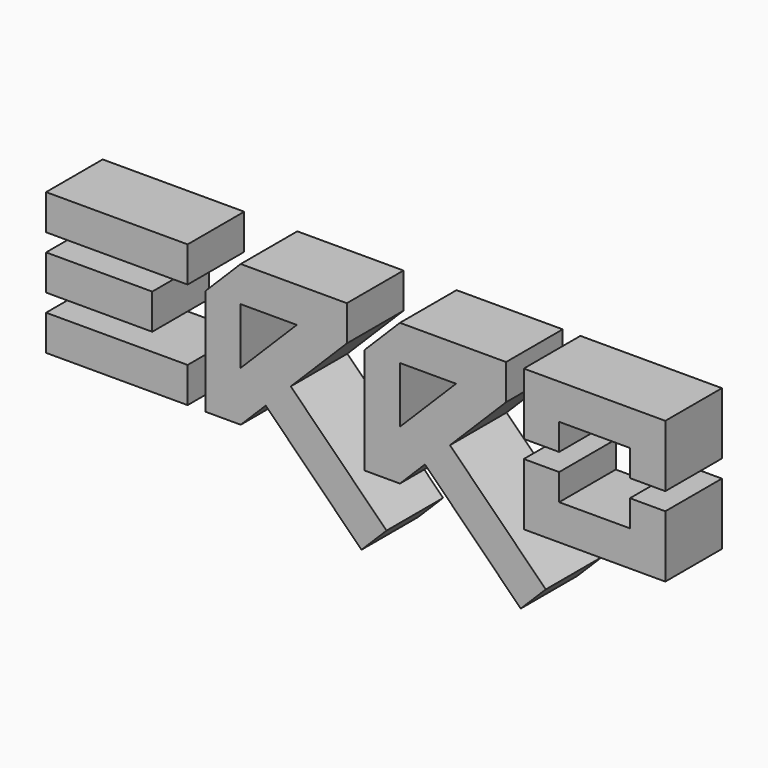
from build123d import *

# Parameters (mm, degrees)
F0_W     = 40
F0_H     = 10
F0_W_2   = 30
F1_DEPTH = 20


with BuildPart() as f1:
    # F0 (on Front) → F1 (new body)
    with BuildSketch(Plane.XZ):
        with Locations((-20, 35)):
            Rectangle(F0_W, F0_H)
        with Locations((-25, 20)):
            Rectangle(F0_W_2, F0_H)
        with Locations((-20, 5)):
            Rectangle(F0_W, F0_H)
        Polygon((5, 30), (5, 0), (15, 0), (22.071068, 7.071068), (49.142136, -20), (56.213203, -12.928932), (29.142136, 14.142136), (45, 30), (45, 40), (15, 40), align=None)
        Polygon((15, 14.142136), (15, 30), (30.857864, 30), align=None, mode=Mode.SUBTRACT)
        Polygon((50, 30), (50, 0), (60, 0), (67.071068, 7.071068), (94.142136, -20), (101.213203, -12.928932), (74.142136, 14.142136), (90, 30), (90, 40), (60, 40), align=None)
        Polygon((60, 14.142136), (60, 30), (75.857864, 30), align=None, mode=Mode.SUBTRACT)
        Polygon((95, 17.5), (95, 0), (135, 0), (135, 17.5), (125, 17.5), (125, 10), (105, 10), (105, 17.5), align=None)
        Polygon((135, 40), (95, 40), (95, 22.5), (105, 22.5), (105, 30), (125, 30), (125, 22.5), (135, 22.5), align=None)
    extrude(amount=F1_DEPTH)


solid = f1.part
